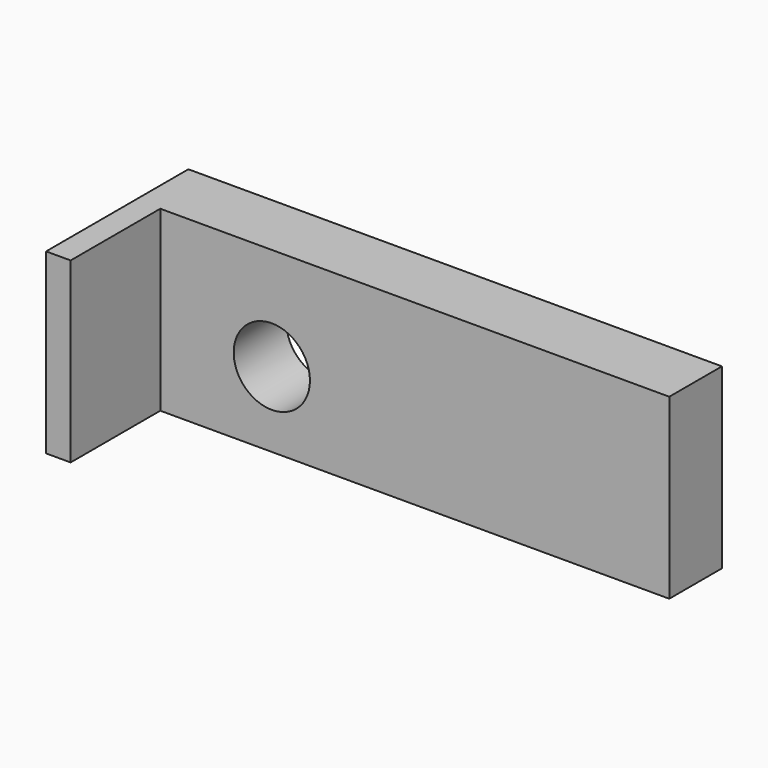
from build123d import *

# Parameters (mm, degrees)
F0_W     = 75
F0_H     = 25
F1_DEPTH = 25
F2_W     = 71.5489391237
F2_H     = 15.7507188409
F3_DEPTH = 25
F4_R     = 5.3592968527
F5_DEPTH = 25


with BuildPart() as f1:
    # F0 (on Top) → F1 (new body)
    with BuildSketch(Plane.XY):
        with Locations((1.0630879551, -1.2695866427)):
            Rectangle(F0_W, F0_H)
    extrude(amount=F1_DEPTH)

    # F2 (on face) → F3 (cut)
    with BuildSketch(Plane.XY.offset(25)):
        with Locations((2.7886183932, -5.8942272223)):
            Rectangle(F2_W, F2_H)
    extrude(amount=-F3_DEPTH, mode=Mode.SUBTRACT)

    # F4 (on face) → F5 (cut)
    with BuildSketch(Plane.XZ.offset(-1.9811321981)):
        with Locations((-17.3081532121, 10.5629041791)):
            Circle(F4_R)
    extrude(amount=-F5_DEPTH, mode=Mode.SUBTRACT)


solid = f1.part
